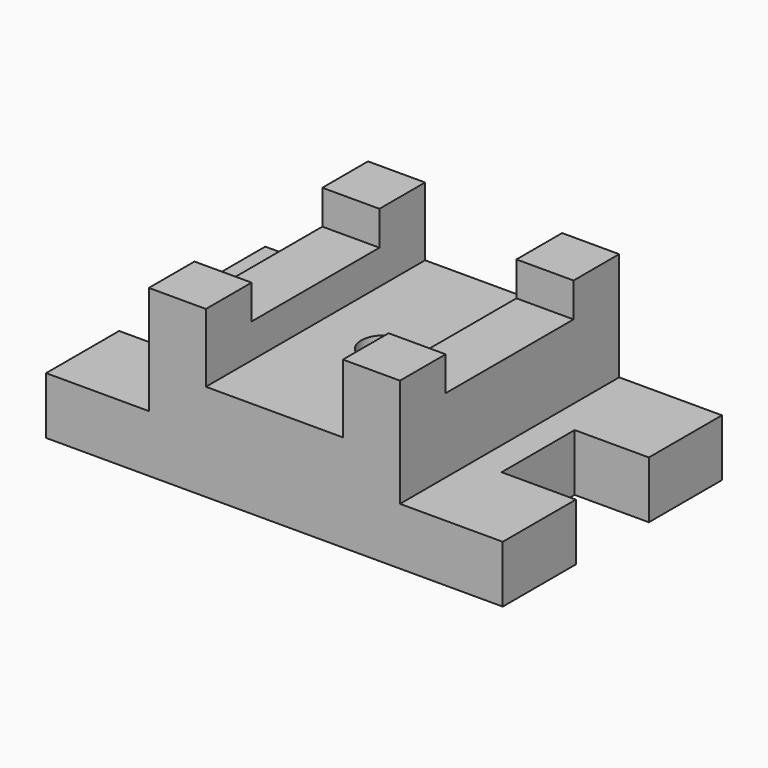
from build123d import *

# Parameters (mm, degrees)
F0_W     = 41.275
F0_H     = 50.8
F1_DEPTH = 31.75
F0_W_2   = 31.75
F0_H_2   = 31.75
F2_DEPTH = 92.075
F3_DEPTH = 73.025
F0_H_3   = 88.9
F4_DEPTH = 53.975


with BuildPart() as f1:
    # F0 (on Top) → F1 (new body)
    with BuildSketch(Plane.XY):
        with Locations((-106.3625, 50.8)):
            Rectangle(F0_W, F0_H)
        with Locations((-106.3625, -50.8)):
            Rectangle(F0_W, F0_H)
        Polygon((-69.85, 44.45), (-69.85, 76.2), (-85.725, 76.2), (-85.725, 25.4), (-85.725, -25.4), (-85.725, -76.2), (-69.85, -76.2), (-69.85, -44.45), align=None)
    extrude(amount=F1_DEPTH)



with BuildPart() as f1b:
    # F0 (on Top) → F1, piece 2 (new body)
    with BuildSketch(Plane.XY):
        with Locations((106.3625, 50.8)):
            Rectangle(F0_W, F0_H)
        with Locations((106.3625, -50.8)):
            Rectangle(F0_W, F0_H)
        Polygon((69.85, -44.45), (69.85, -76.2), (85.725, -76.2), (85.725, -25.4), (85.725, 25.4), (69.85, 25.4), align=None)
        Polygon((85.725, 76.2), (69.85, 76.2), (69.85, 44.45), (69.85, 25.4), (85.725, 25.4), align=None)
    extrude(amount=F1_DEPTH)



with BuildPart() as f2:
    # F0 (on Top) → F2 (new body)
    with BuildSketch(Plane.XY):
        with Locations((-53.975, 60.325)):
            Rectangle(F0_W_2, F0_H_2)
    extrude(amount=F2_DEPTH)


with BuildPart() as f2b:
    # F0 (on Top) → F2, piece 2 (new body)
    with BuildSketch(Plane.XY):
        with Locations((-53.975, -60.325)):
            Rectangle(F0_W_2, F0_H_2)
    extrude(amount=F2_DEPTH)


with BuildPart() as f2c:
    # F0 (on Top) → F2, piece 3 (new body)
    with BuildSketch(Plane.XY):
        with Locations((53.975, 60.325)):
            Rectangle(F0_W_2, F0_H_2)
    extrude(amount=F2_DEPTH)


with BuildPart() as f2d:
    # F0 (on Top) → F2, piece 4 (new body)
    with BuildSketch(Plane.XY):
        with Locations((53.975, -60.325)):
            Rectangle(F0_W_2, F0_H_2)
    extrude(amount=F2_DEPTH)


with BuildPart() as f1b_1:
    add(f1b.part)

    add(f2c.part)  # F3 merges F2c

    add(f2d.part)  # F3 merges F2d
    # F0 (on Top) → F3 (join)
    with BuildSketch(Plane.XY):
        Polygon((69.85, 44.45), (38.1, 44.45), (38.1, -44.45), (69.85, -44.45), (69.85, 25.4), align=None)
    extrude(amount=F3_DEPTH)


with BuildPart() as f1_1:
    add(f1.part)

    add(f2.part)  # F3#2 merges F2

    add(f2b.part)  # F3#2 merges F2b
    # F0 (on Top) → F3, piece 2 (join)
    with BuildSketch(Plane.XY):
        with Locations((-53.975, 0)):
            Rectangle(F0_W_2, F0_H_3)
    extrude(amount=F3_DEPTH)


    add(f1b_1.part)  # F4 merges F1b
    # F0 (on Top) → F4 (join)
    with BuildSketch(Plane.XY):
        with BuildLine():
            ThreePointArc((0, -12.7), (-12.7, 0), (0, 12.7))
            Line((0, 12.7), (0, 76.2))
            Line((0, 76.2), (-38.1, 76.2))
            Line((-38.1, 76.2), (-38.1, 44.45))
            Line((-38.1, 44.45), (-38.1, -44.45))
            Line((-38.1, -44.45), (-38.1, -76.2))
            Line((-38.1, -76.2), (0, -76.2))
            Line((0, -76.2), (0, -12.7))
        make_face()
        with BuildLine():
            ThreePointArc((0, 12.7), (8.9802561211, 8.9802561211), (12.7, 0))
            ThreePointArc((12.7, 0), (8.9802561211, -8.9802561211), (0, -12.7))
            Line((0, -12.7), (0, -76.2))
            Line((0, -76.2), (38.1, -76.2))
            Line((38.1, -76.2), (38.1, -44.45))
            Line((38.1, -44.45), (38.1, 44.45))
            Line((38.1, 44.45), (38.1, 76.2))
            Line((38.1, 76.2), (0, 76.2))
            Line((0, 76.2), (0, 12.7))
        make_face()
    extrude(amount=F4_DEPTH)


solid = f1_1.part
